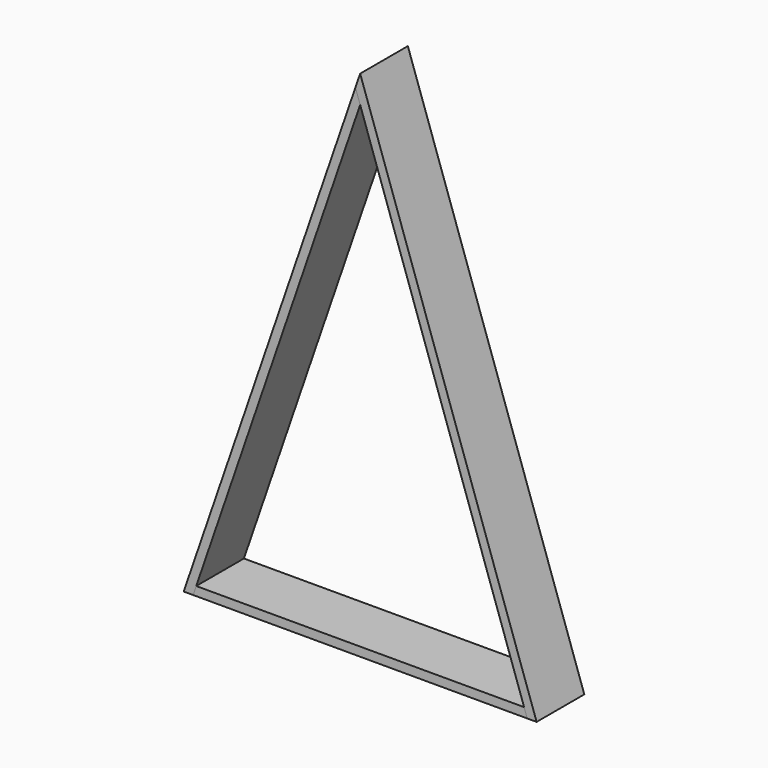
from build123d import *

# Parameters (mm, degrees)
F1_DEPTH = 100
F2_DEPTH = 100
F3_DEPTH = 100


with BuildPart() as f1:
    # F0 (on Front) → F1 (new body)
    with BuildSketch(Plane.XZ):
        Polygon((-280.15625, -815), (-275, -800), (0, 0), (-7.930746, 23.07126), (-296.017742, -815), align=None)
    extrude(amount=F1_DEPTH)


with BuildPart() as f2:
    # F0 (on Front) → F2 (new body)
    with BuildSketch(Plane.XZ):
        Polygon((0, 0), (275, -800), (280.15625, -815), (296.017742, -815), (0, 46.142521), (-7.930746, 23.07126), align=None)
    extrude(amount=F2_DEPTH)


with BuildPart() as f3:
    # F0 (on Front) → F3 (new body)
    with BuildSketch(Plane.XZ):
        Polygon((275, -800), (0, -800), (-275, -800), (-280.15625, -815), (0, -815), (280.15625, -815), align=None)
    extrude(amount=F3_DEPTH)


solid = Compound([f1.part, f2.part, f3.part])
